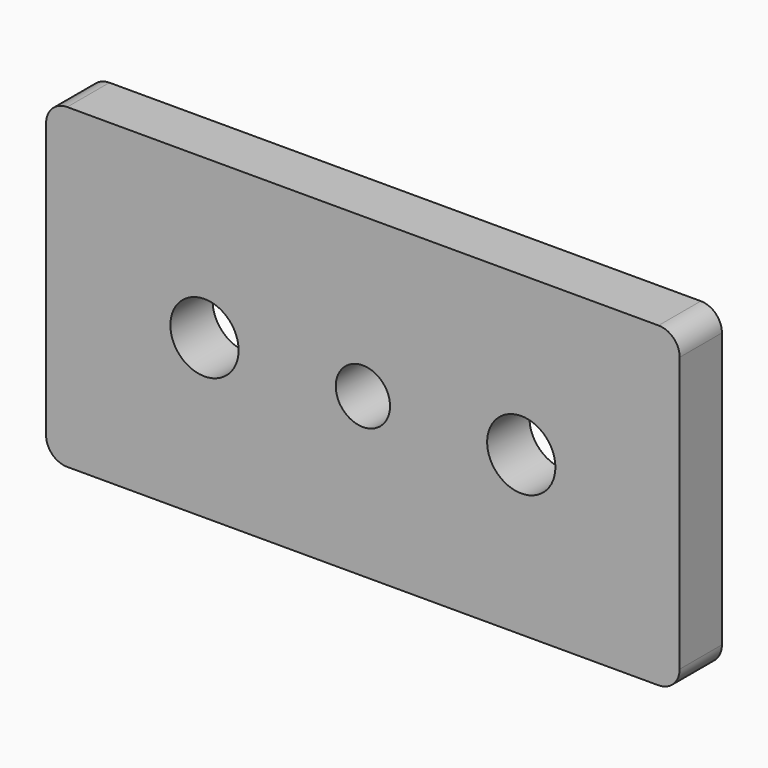
from build123d import *

# Parameters (mm, degrees)
F0_R     = 4.1021
F0_R_2   = 3.2639
F1_DEPTH = 6.35


with BuildPart() as f1:
    # F0 (on Front) → F1 (new body)
    with BuildSketch(Plane.XZ):
        with BuildLine():
            ThreePointArc((0, 2.54), (0.743949, 0.743949), (2.54, 0))
            Line((2.54, 0), (73.66, 0))
            ThreePointArc((73.66, 0), (75.456051, 0.743949), (76.2, 2.54))
            Line((76.2, 2.54), (76.2, 35.56))
            ThreePointArc((76.2, 35.56), (75.456051, 37.356051), (73.66, 38.1))
            Line((73.66, 38.1), (2.54, 38.1))
            ThreePointArc((2.54, 38.1), (0.743949, 37.356051), (0, 35.56))
            Line((0, 35.56), (0, 2.54))
        make_face()
        with Locations((19.05, 19.05)):
            Circle(F0_R, mode=Mode.SUBTRACT)
        with Locations((38.1, 19.05)):
            Circle(F0_R_2, mode=Mode.SUBTRACT)
        with Locations((57.15, 19.05)):
            Circle(F0_R, mode=Mode.SUBTRACT)
    extrude(amount=F1_DEPTH)


solid = f1.part
